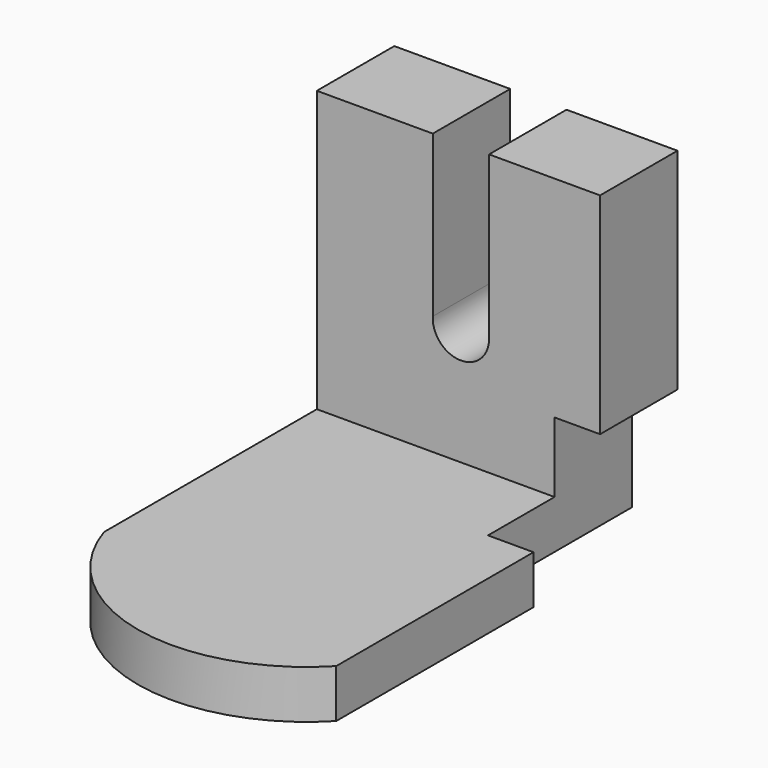
from build123d import *

# Parameters (mm, degrees)
F0_W      = 85.8696545474
F0_H      = 63.5460242629
F1_DEPTH  = 12.7
F2_W      = 92.7285123616
F2_H      = 86.2638354301
F3_DEPTH  = 25.4
F4_W      = 18.4039166197
F4_H      = 86.2638354301
F5_DEPTH  = 125.7651254213
F7_DEPTH  = 125.7651254213
F8_W      = 11.9450474158
F8_H      = 21.8296758831
F9_DEPTH  = 12.701
F11_DEPTH = 25.401


with BuildPart() as f1:
    # F0 (on Top) → F1 (new body)
    with BuildSketch(Plane.XY):
        with BuildLine():
            Line((-80.6561261415, -63.5460242629), (-80.6561261415, -69.8450654745))
            ThreePointArc((-80.6561261415, -69.8450654745), (-35.2602329122, -100.2452354213), (5.2135284059, -63.5460242629))
            Line((5.2135284059, -63.5460242629), (-80.6561261415, -63.5460242629))
        make_face()
        with Locations((-37.7212988678, -31.7730121315)):
            Rectangle(F0_W, F0_H)
    extrude(amount=F1_DEPTH)

    # F2 (on face) → F3 (join)
    with BuildSketch(Plane(origin=(0, 0, 0), x_dir=(-1, 0, 0), z_dir=(0, 1, 0))):
        with Locations((34.2918699607, 43.1319177151)):
            Rectangle(F2_W, F2_H)
    extrude(amount=F3_DEPTH)

    # F4 (on face) → F5 (cut, through all)
    with BuildSketch(Plane(origin=(0, 25.4, 0), x_dir=(-1, 0, 0), z_dir=(0, 1, 0))):
        with Locations((-2.8704279102, 43.1319177151)):
            Rectangle(F4_W, F4_H)
    extrude(amount=-F5_DEPTH, mode=Mode.SUBTRACT)

    # F6 (on face) → F7 (cut, through all)
    with BuildSketch(Plane(origin=(0, 25.4, 0), x_dir=(-1, 0, 0), z_dir=(0, 1, 0))):
        with BuildLine():
            Line((35.4592986405, 86.2638354301), (35.4592986405, 43.8016988337))
            ThreePointArc((35.4592986405, 43.8016988337), (42.9720902866, 36.2405068141), (50.22874102, 44.0478548408))
            Line((50.22874102, 44.0478548408), (49.4902729988, 86.2638354301))
            Line((49.4902729988, 86.2638354301), (35.4592986405, 86.2638354301))
        make_face()
        Polygon((49.4902729988, 86.2638354301), (50.22874102, 44.0478548408), (50.22874102, 86.2638354301), align=None)
    extrude(amount=-F7_DEPTH, mode=Mode.SUBTRACT)

    # F8 (on face) → F9 (cut, through all)
    with BuildSketch(Plane.XY.offset(12.7)):
        with Locations((-12.3040541075, -10.9148379415)):
            Rectangle(F8_W, F8_H)
    extrude(amount=-F9_DEPTH, mode=Mode.SUBTRACT)

    # F10 (on face) → F11 (cut, through all)
    with BuildSketch(Plane.XZ):
        Polygon((-18.2765778154, 31.0841165483), (-18.2765778154, 12.7), (-18.2765778154, 0), (-6.3315303996, 0), (-6.3315303996, 31.0841165483), align=None)
    extrude(amount=-F11_DEPTH, mode=Mode.SUBTRACT)


solid = f1.part
